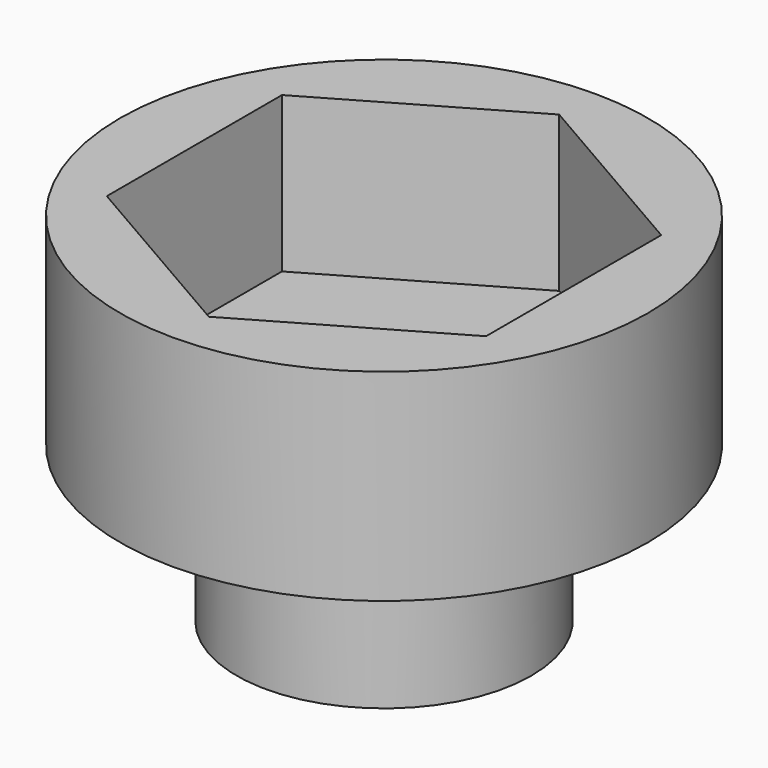
from build123d import *

# Parameters (mm, degrees)
SKETCH_R     = 17
PAD_DEPTH    = 3
SKETCH001_R  = 17
PAD001_DEPTH = 10
SKETCH002_R  = 9.49
PAD002_DEPTH = 10


with BuildPart() as part:
    # Sketch → Pad (new body)
    with BuildSketch(Plane.XY):
        Circle(SKETCH_R)
    extrude(amount=PAD_DEPTH)

    # Sketch001 (on Face3 of Pad) → Pad001 (join)
    with BuildSketch(Plane.XY.offset(3)):
        Circle(SKETCH001_R)
        Polygon((0, 14.1), (-12.210958, 7.05), (-12.210958, -7.05), (0, -14.1), (12.210958, -7.05), (12.210958, 7.05), align=None, mode=Mode.SUBTRACT)
    extrude(amount=PAD001_DEPTH)

    # Sketch002 (on Face2 of Pad001) → Pad002 (join)
    with BuildSketch(Plane(origin=(0, 0, 0), x_dir=(1, 0, 0), z_dir=(0, 0, -1))):
        Circle(SKETCH002_R)
    extrude(amount=PAD002_DEPTH)


solid = part.part
